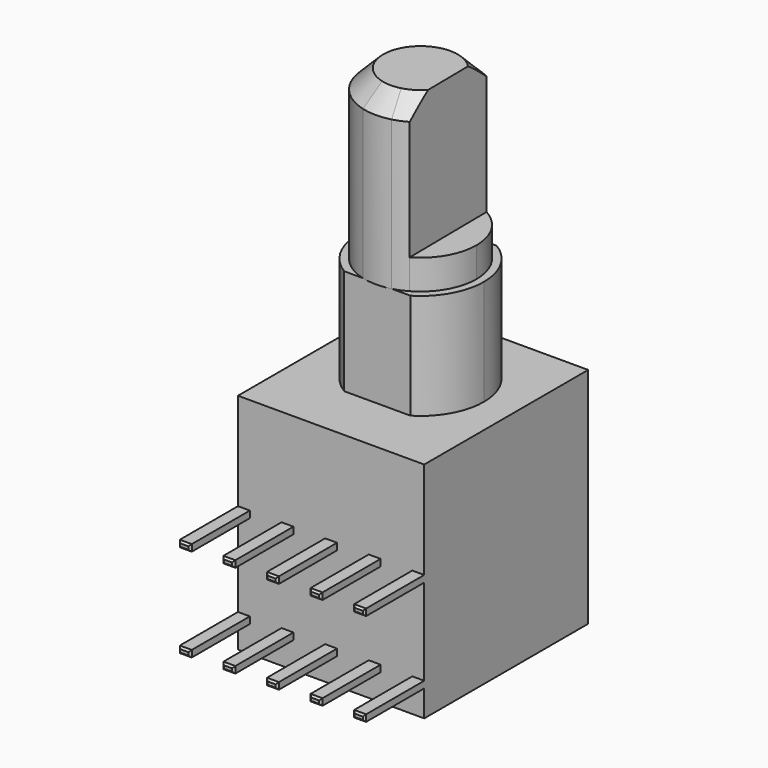
from build123d import *

# Parameters (mm, degrees)
F0_W     = 10
F0_H     = 11
F1_DEPTH = 12
F3_DEPTH = 5.67
F5_DEPTH = 1.6
F6_DEPTH = 9
F7_SIZE  = 1
F8_W     = 0.64
F8_H     = 0.36
F9_DEPTH = 4
F10_SIZE = 0.1


with BuildPart() as f1:
    # F0 (on Top) → F1 (new body)
    with BuildSketch(Plane.XY):
        Rectangle(F0_W, F0_H)
        Rectangle(F0_W, F0_H)
    extrude(amount=F1_DEPTH)

    # F2 (on face) → F3 (join)
    with BuildSketch(Plane.XY.offset(12)):
        with BuildLine():
            ThreePointArc((1.7748239349, -2.4), (2.9660075336, -1.1621670526), (3.4, 0.5))
            ThreePointArc((3.4, 0.5), (2.9660075336, 2.1621670526), (1.7748239349, 3.4))
            Line((1.7748239349, 3.4), (-1.7748239349, 3.4))
            ThreePointArc((-1.7748239349, 3.4), (-3.4, 0.5), (-1.7748239349, -2.4))
            Line((-1.7748239349, -2.4), (1.7748239349, -2.4))
        make_face()
    extrude(amount=F3_DEPTH)

    # F4 (on face) → F5 (join)
    with BuildSketch(Plane.XY.offset(17.67)):
        with BuildLine():
            ThreePointArc((1.4997051578, -2.0982464163), (2.5979910963, -1.0001474139), (3, 0.5))
            ThreePointArc((3, 0.5), (2.5807277905, 2.0296548863), (1.4401039525, 3.1317485834))
            Line((1.4401039525, 3.1317485834), (1.4997051578, -2.0982464163))
        make_face()
    extrude(amount=F5_DEPTH)

    # F4 (on face) → F6 (join)
    with BuildSketch(Plane.XY.offset(17.67)):
        with BuildLine():
            Line((1.4997051578, -2.0982464163), (1.4401039525, 3.1317485834))
            ThreePointArc((1.4401039525, 3.1317485834), (1.1122261333, 3.2862076427), (0.7681145748, 3.4))
            Line((0.7681145748, 3.4), (-0.7681145748, 3.4))
            ThreePointArc((-0.7681145748, 3.4), (-3, 0.5), (-0.7681145748, -2.4))
            Line((-0.7681145748, -2.4), (0.7681145748, -2.4))
            ThreePointArc((0.7681145748, -2.4), (1.143903576, -2.2733525937), (1.4997051578, -2.0982464163))
        make_face()
        with BuildLine():
            ThreePointArc((-0.7681145748, -2.4), (0, -2.5), (0.7681145748, -2.4))
            Line((0.7681145748, -2.4), (-0.7681145748, -2.4))
        make_face()
        with BuildLine():
            Line((-0.7681145748, 3.4), (0.7681145748, 3.4))
            ThreePointArc((0.7681145748, 3.4), (0, 3.5), (-0.7681145748, 3.4))
        make_face()
    extrude(amount=F6_DEPTH)

    # F7
    f7_edges = [f1.edges().sort_by_distance(p)[0] for p in [
        (-2.999805, 0.465814, 26.67),
    ]]
    chamfer(f7_edges, length=F7_SIZE)

    # F8 (on face) → F9 (join)
    with BuildSketch(Plane.XZ.offset(5.5)):
        with Locations((-4.68, 6.6)):
            Rectangle(F8_W, F8_H)
        with Locations((-2.34, 6.6)):
            Rectangle(F8_W, F8_H)
        with Locations((0, 6.6)):
            Rectangle(F8_W, F8_H)
        with Locations((4.68, 1.6)):
            Rectangle(F8_W, F8_H)
        with Locations((2.34, 1.6)):
            Rectangle(F8_W, F8_H)
        with Locations((0, 1.6)):
            Rectangle(F8_W, F8_H)
        with Locations((-2.34, 1.6)):
            Rectangle(F8_W, F8_H)
        with Locations((-4.68, 1.6)):
            Rectangle(F8_W, F8_H)
        with Locations((2.34, 6.6)):
            Rectangle(F8_W, F8_H)
        with Locations((4.68, 6.6)):
            Rectangle(F8_W, F8_H)
    extrude(amount=F9_DEPTH)

    # F10
    f10_edges = [f1.edges().sort_by_distance(p)[0] for p in [
        (-5, -9.5, 6.6),
        (-4.68, -9.5, 6.42),
        (-4.36, -9.5, 6.6),
        (-4.68, -9.5, 6.78),
        (-2.66, -9.5, 6.6),
        (-2.34, -9.5, 6.42),
        (-2.02, -9.5, 6.6),
        (-2.34, -9.5, 6.78),
        (-0.32, -9.5, 6.6),
        (0, -9.5, 6.42),
        (0.32, -9.5, 6.6),
        (0, -9.5, 6.78),
        (2.02, -9.5, 6.6),
        (2.34, -9.5, 6.42),
        (2.66, -9.5, 6.6),
        (2.34, -9.5, 6.78),
        (4.68, -9.5, 6.42),
        (5, -9.5, 6.6),
        (4.68, -9.5, 6.78),
        (4.36, -9.5, 6.6),
        (4.68, -9.5, 1.42),
        (5, -9.5, 1.6),
        (4.68, -9.5, 1.78),
        (4.36, -9.5, 1.6),
        (2.02, -9.5, 1.6),
        (2.34, -9.5, 1.42),
        (2.66, -9.5, 1.6),
        (2.34, -9.5, 1.78),
        (-0.32, -9.5, 1.6),
        (0, -9.5, 1.42),
        (0.32, -9.5, 1.6),
        (0, -9.5, 1.78),
        (-2.66, -9.5, 1.6),
        (-2.34, -9.5, 1.42),
        (-2.02, -9.5, 1.6),
        (-2.34, -9.5, 1.78),
        (-5, -9.5, 1.6),
        (-4.68, -9.5, 1.42),
        (-4.36, -9.5, 1.6),
        (-4.68, -9.5, 1.78),
    ]]
    chamfer(f10_edges, length=F10_SIZE)


solid = f1.part
